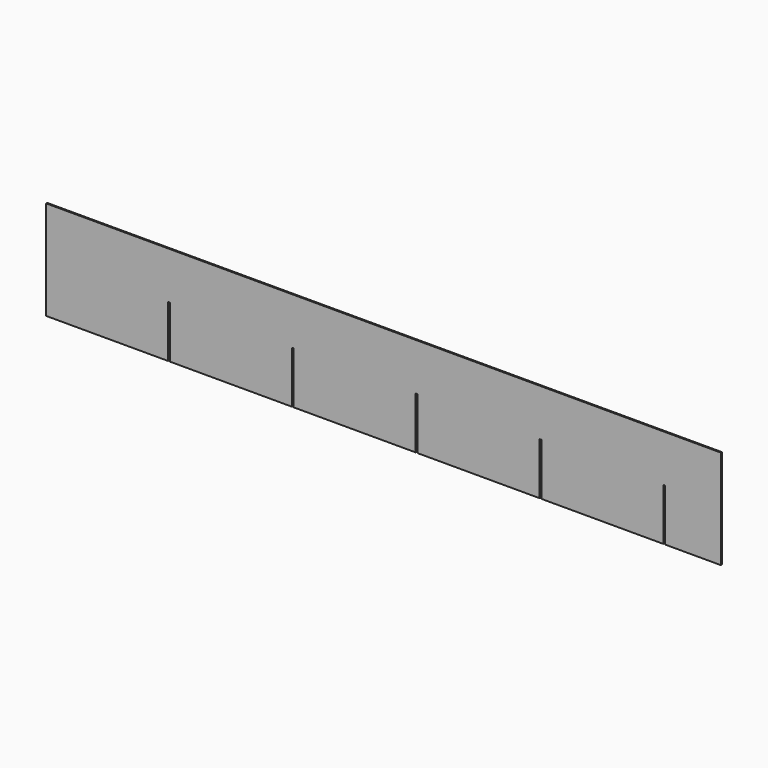
from build123d import *

# Parameters (mm, degrees)
F1_DEPTH = 1


with BuildPart() as f1:
    # F0 (on Front) → F1 (new body)
    with BuildSketch(Plane.XZ):
        Polygon((-67.022592, 70.287041), (-67.022592, -9.712959), (31.477408, -9.712959), (31.477408, 32.287041), (32.977408, 32.287041), (32.977408, -9.712959), (131.477408, -9.712959), (131.477408, 32.287041), (132.977408, 32.287041), (132.977408, -9.712959), (231.477408, -9.712959), (231.477408, 32.287041), (232.977408, 32.287041), (232.977408, -9.712959), (331.477408, -9.712959), (331.477408, 32.287041), (332.977408, 32.287041), (332.977408, -9.712959), (431.477408, -9.712959), (431.477408, 32.287041), (432.977408, 32.287041), (432.977408, -9.712959), (477.977408, -9.712959), (477.977408, 70.287041), align=None)
    extrude(amount=F1_DEPTH)


solid = f1.part
